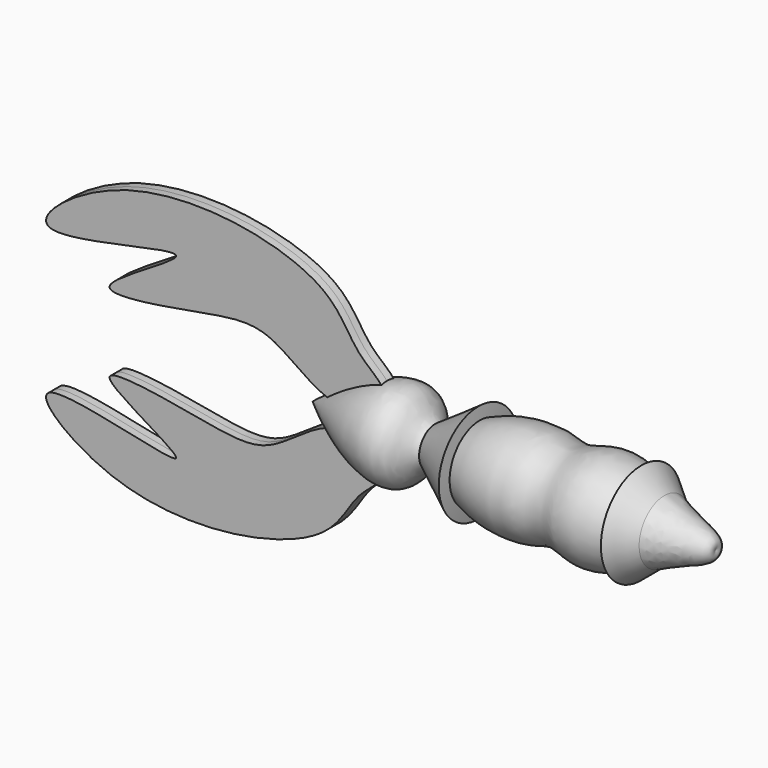
from build123d import *

# Parameters (mm, degrees)
F3_DEPTH = 2.54


with BuildPart() as f1:
    # F0 (on Front) → F1 (revolve)
    with BuildSketch(Plane.XZ):
        with BuildLine():
            add(Edge.make_bspline(
                [(-77.5675256871, 0), (-63.4152374182, 11.1701438405), (-43.37273372, 20.3143294183), (-39.343937899, 7.6145036578), (-36.5803375648, 6.7244512145)],
                knots=[0, 0, 0, 0, 0.1814612156, 0.2783425807, 0.2783425807, 0.2783425807, 0.2783425807], degree=3))
            Line((-77.5675256871, 0), (57.041055336, 0))
            add(Edge.make_bspline(
                [(39.9480243741, 10.4911867571), (42.7968509392, 9.2700623919), (51.5021298161, 5.5170760774), (58.825946027, 3.8054239044), (57.041055336, 0)],
                knots=[0.8504572427, 0.8504572427, 0.8504572427, 0.8504572427, 0.8989322607, 1, 1, 1, 1], degree=3))
            add(Edge.make_bspline(
                [(31.4119042796, 13.9682277254), (34.2048607411, 12.9459140276), (37.0900135037, 11.7162478937), (39.9480243741, 10.4911867571)],
                knots=[0.8018259464, 0.8018259464, 0.8018259464, 0.8018259464, 0.8504572427, 0.8504572427, 0.8504572427, 0.8504572427], degree=3))
            add(Edge.make_bspline(
                [(-21.7099785805, 12.5631522387), (-21.3729506111, 12.715517507), (-13.8629061019, 15.9944555623), (-0.1516746015, 17.0311044106), (8.6893269388, 12.6754474241), (18.2554553588, 17.9658463257), (27.6856100225, 15.332173678), (31.4119042796, 13.9682277254)],
                knots=[0.396460592, 0.396460592, 0.396460592, 0.396460592, 0.4029780734, 0.5407584197, 0.630062215, 0.7369432594, 0.8018259464, 0.8018259464, 0.8018259464, 0.8018259464], degree=3))
            add(Edge.make_bspline(
                [(-36.5803375648, 6.7244512145), (-33.2109488755, 5.6392969691), (-27.81802419, 9.8017968249), (-21.7099785805, 12.5631522387)],
                knots=[0.2783425807, 0.2783425807, 0.2783425807, 0.2783425807, 0.396460592, 0.396460592, 0.396460592, 0.396460592], degree=3))
        make_face()
        with BuildLine():
            add(Edge.make_bspline(
                [(31.4119042796, 13.9682277254), (34.2048607411, 12.9459140276), (37.0900135037, 11.7162478937), (39.9480243741, 10.4911867571)],
                knots=[0.8018259464, 0.8018259464, 0.8018259464, 0.8018259464, 0.8504572427, 0.8504572427, 0.8504572427, 0.8504572427], degree=3))
            Line((39.9480243741, 10.4911867571), (32.3018319905, 16.9035568833))
            Line((32.3018319905, 16.9035568833), (31.4119042796, 13.9682277254))
        make_face()
        with BuildLine():
            Line((-22.1211258322, 16.5761858225), (-36.5803375648, 6.7244512145))
            add(Edge.make_bspline(
                [(-36.5803375648, 6.7244512145), (-33.2109488755, 5.6392969691), (-27.81802419, 9.8017968249), (-21.7099785805, 12.5631522387)],
                knots=[0.2783425807, 0.2783425807, 0.2783425807, 0.2783425807, 0.396460592, 0.396460592, 0.396460592, 0.396460592], degree=3))
            Line((-21.7099785805, 12.5631522387), (-22.1211258322, 16.5761858225))
        make_face()
    revolve(axis=Axis((-10.2632351756, 0, 0), (-1, 0, 0)))

    # F2 (on Front) → F3 (join, symmetric)
    with BuildSketch(Plane.XZ):
        with BuildLine():
            add(Edge.make_bspline(
                [(-51.5716615501, 11.0546047416), (-51.2395329882, 14.2691431328), (-62.5365913027, 20.4776030568), (-68.6822211312, 41.9254594025), (-136.2454697329, 54.6868009311), (-184.6124686042, 12.8269893008), (-94.5271313261, 40.6298669905), (-162.740823387, 7.0149568031), (-109.9477969439, 16.0507745206), (-89.524152607, 20.1883387232), (-68.5493277382, -2.3929168268), (-51.9515914197, 7.3774167722), (-51.5716615501, 11.0546047416)],
                knots=[0, 0, 0, 0, 0.0666052213, 0.1513630593, 0.3068956744, 0.4097447817, 0.5326052224, 0.6310924857, 0.7322012035, 0.8272294422, 0.9238086815, 1, 1, 1, 1], degree=3))
        make_face()
    extrude(amount=F3_DEPTH, both=True)

    # F4: F1 across plane


with BuildPart() as f1_1:
    add(f1.part)
    add(f1.part.mirror(Plane.XY))


solid = f1_1.part
